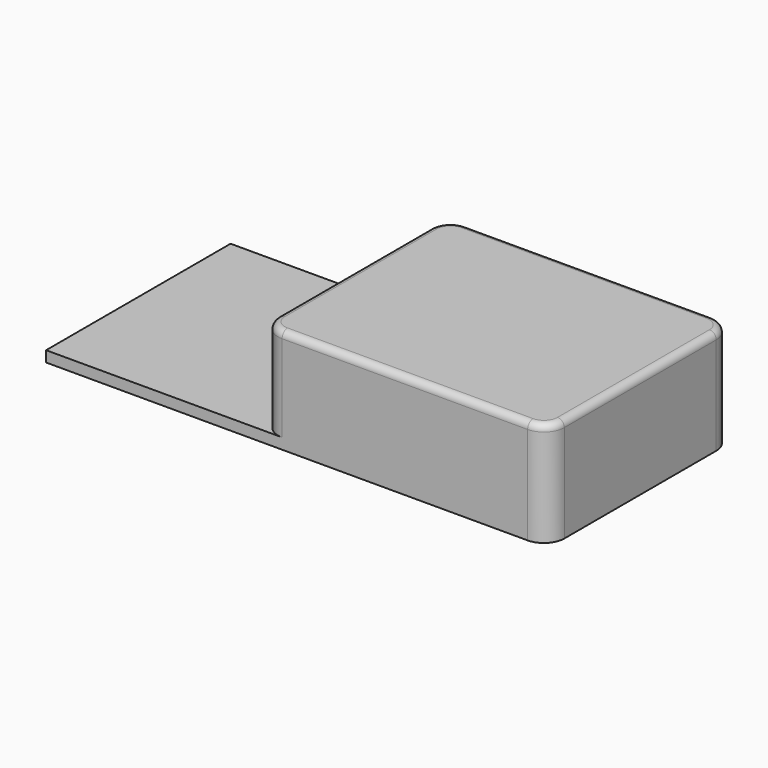
from build123d import *

# Parameters (mm, degrees)
F0_W     = 37
F0_H     = 17
F1_DEPTH = 0.8
F2_W     = 21.1
F2_H     = 8.5
F3_DEPTH = 6.9
F4_R     = 1.5
F5_R     = 0.5


with BuildPart() as f1:
    # F0 (on Top) → F1 (new body)
    with BuildSketch(Plane.XY):
        Rectangle(F0_W, F0_H)
    extrude(amount=F1_DEPTH)

    # F2 (on face) → F3 (join)
    with BuildSketch(Plane.XY.offset(0.8)):
        with Locations((7.95, 4.25)):
            Rectangle(F2_W, F2_H)
        with Locations((7.95, -4.25)):
            Rectangle(F2_W, F2_H)
    extrude(amount=F3_DEPTH)

    # F4
    f4_edges = [f1.edges().sort_by_distance(p)[0] for p in [
        (18.5, -8.5, 3.85),
        (18.5, 8.5, 3.85),
        (-2.6, 8.5, 4.25),
        (-2.6, -8.5, 4.25),
    ]]
    fillet(f4_edges, radius=F4_R)

    # F5
    f5_edges = [f1.edges().sort_by_distance(p)[0] for p in [
        (7.95, 8.5, 7.7),
    ]]
    fillet(f5_edges, radius=F5_R)


solid = f1.part
